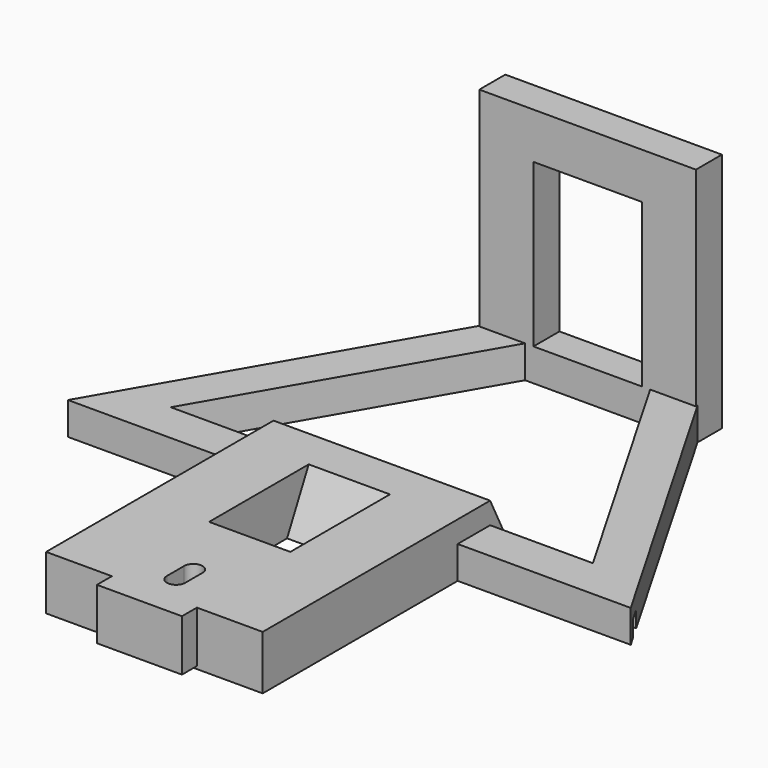
from build123d import *

# Parameters (mm, degrees)
BOX051_W                   = 220
BOX051_H                   = 2.5
BOX051_DEPTH               = 3
EXTRUDE020_DEPTH           = 10
BOX052_W                   = 220
BOX052_H                   = 113
BOX052_DEPTH               = 8
BOX050_W                   = 32
BOX050_H                   = 6
BOX050_DEPTH               = 6
PRISM006_DEPTH             = 6
PRISM006_PLACEMENT_ANGLE   = 30
PRISM007_DEPTH             = 6
PRISM007_PLACEMENT_ANGLE   = 30
BOX055_W                   = 6.3
BOX055_H                   = 8
BOX055_DEPTH               = 2.5
EXTRUDE021_DEPTH           = 12
BOX054_W                   = 15.7
BOX054_H                   = 3.45
BOX054_DEPTH               = 9.5
BOX053_W                   = 15
BOX053_H                   = 22
BOX053_DEPTH               = 10
EXTRUDE022_DEPTH           = 12
BOX038_W                   = 12.5
BOX038_H                   = 46
BOX038_DEPTH               = 10
BOX046_W                   = 220
BOX046_H                   = 2.5
BOX046_DEPTH               = 3
BOX045_W                   = 30
BOX045_H                   = 7.5
BOX045_DEPTH               = 10
BOX047_W                   = 50
BOX047_H                   = 10
BOX047_DEPTH               = 10
BOX042_W                   = 12.5
BOX042_H                   = 7.5
BOX042_DEPTH               = 12
BOX043_W                   = 12.5
BOX043_H                   = 7.5
BOX043_DEPTH               = 12
CYLINDER004_R              = 1.7
CYLINDER004_DEPTH          = 30
BOX041_W                   = 15
BOX041_H                   = 70
BOX041_DEPTH               = 6
BOX044_W                   = 40
BOX044_H                   = 51
BOX044_DEPTH               = 6
EXTRUDE018_DEPTH           = 40
BOX040_W                   = 12.5
BOX040_H                   = 46
BOX040_DEPTH               = 10
BOX039_W                   = 12.5
BOX039_H                   = 46
BOX039_DEPTH               = 10
EXTRUDE019_DEPTH           = 40
EXTRUDE019_PLACEMENT_ANGLE = 180
BOX036_W                   = 220
BOX036_H                   = 2.5
BOX036_DEPTH               = 3
BOX037_W                   = 30
BOX037_H                   = 7.5
BOX037_DEPTH               = 10
BOX035_W                   = 50
BOX035_H                   = 10
BOX035_DEPTH               = 10
BOX009_W                   = 12.5
BOX009_H                   = 7.5
BOX009_DEPTH               = 12
BOX010_W                   = 12.5
BOX010_H                   = 7.5
BOX010_DEPTH               = 12
CYLINDER_R                 = 1.7
CYLINDER_DEPTH             = 30
BOX007_W                   = 15
BOX007_H                   = 70
BOX007_DEPTH               = 6
BOX006_W                   = 40
BOX006_H                   = 51
BOX006_DEPTH               = 6
BOX048_W                   = 20
BOX048_H                   = 6
BOX048_DEPTH               = 30
BOX049_W                   = 40
BOX049_H                   = 6
BOX049_DEPTH               = 44.5


with BuildPart() as obj1:
    # Box051 → Box051 (new body)
    with BuildSketch(Plane(origin=(-110, 2, 0), x_dir=(1, 0, 0), z_dir=(0, 0, 1))):
        with Locations((110, 1.25)):
            Rectangle(BOX051_W, BOX051_H)
    extrude(amount=BOX051_DEPTH)


with BuildPart() as extrude020:
    # Sketch017 → Extrude020 (new body)
    with BuildSketch(Plane.XY):
        Polygon((-95, 0), (95, 0), (85, 61), (-85, 61), align=None)
    extrude(amount=EXTRUDE020_DEPTH)


with BuildPart() as obj2:
    # Box052 → Box052 (new body)
    with BuildSketch(Plane(origin=(-110, -15, 0), x_dir=(1, 0, 0), z_dir=(0, 0, 1))):
        with Locations((110, 56.5)):
            Rectangle(BOX052_W, BOX052_H)
    extrude(amount=BOX052_DEPTH)

    # Cut004035: cut Extrude020
    add(extrude020.part, mode=Mode.SUBTRACT)


with BuildPart() as cube045:
    # Box050 → Box050 (new body)
    with BuildSketch(Plane(origin=(-16, 55, 0), x_dir=(1, 0, 0), z_dir=(0, 0, 1))):
        with Locations((16, 3)):
            Rectangle(BOX050_W, BOX050_H)
    extrude(amount=BOX050_DEPTH)


with BuildPart() as prism006:
    # Prism006 → Prism006 (new body)
    with BuildSketch(Plane.XY):
        Polygon((45, 0), (-22.5, 38.971143), (-22.5, -38.971143), align=None)
    extrude(amount=PRISM006_DEPTH)


with BuildPart() as prism006_1:
    # Prism006 placement: moved
    add(prism006.part.moved(Location((0, 23, 0))).rotate(Axis((0, 23, 0), (0, 0, -1)), PRISM006_PLACEMENT_ANGLE))


with BuildPart() as obj3:
    # Prism007 → Prism007 (new body)
    with BuildSketch(Plane.XY):
        Polygon((60, 0), (-30, 51.961524), (-30, -51.961524), align=None)
    extrude(amount=PRISM007_DEPTH)


with BuildPart() as obj3_1:
    # Prism007 placement: moved
    add(obj3.part.moved(Location((0, 23, 0))).rotate(Axis((0, 23, 0), (0, 0, -1)), PRISM007_PLACEMENT_ANGLE))

    # Cut004032: cut Prism006
    add(prism006_1.part, mode=Mode.SUBTRACT)


with BuildPart() as obj3_2:
    # Cut004032 placement: moved
    add(obj3_1.part.moved(Location((0, 7, 0))))

    # Fusion004009004002006: union Cube045
    add(cube045.part)

    # Cut004034: cut obj2
    add(obj2.part, mode=Mode.SUBTRACT)

    # Cut004033: cut obj1
    add(obj1.part, mode=Mode.SUBTRACT)


with BuildPart() as cube049:
    # Box055 → Box055 (new body)
    with BuildSketch(Plane(origin=(-3.15, -42, 0), x_dir=(1, 0, 0), z_dir=(0, 0, 1))):
        with Locations((3.15, 4)):
            Rectangle(BOX055_W, BOX055_H)
    extrude(amount=BOX055_DEPTH)


with BuildPart() as extrude021:
    # Sketch018 (on Face24 of Fusion004009004002007001) → Extrude021 (new body)
    with BuildSketch(Plane.XY.offset(10)):
        with BuildLine():
            ThreePointArc((1.7, -36), (0, -34.3), (-1.7, -36))
            Line((-1.7, -36), (-1.7, -40))
            ThreePointArc((-1.7, -40), (0, -41.7), (1.7, -40))
            Line((1.7, -36), (1.7, -40))
        make_face()
    extrude(amount=EXTRUDE021_DEPTH)


with BuildPart() as extrude021_1:
    # Extrude021 placement: moved
    add(extrude021.part.moved(Location((0, 0, -11))))


with BuildPart() as cube048:
    # Box054 → Box054 (new body)
    with BuildSketch(Plane(origin=(-7.85, -48.45, 0.5), x_dir=(1, 0, 0), z_dir=(0, 0, 1))):
        with Locations((7.85, 1.725)):
            Rectangle(BOX054_W, BOX054_H)
    extrude(amount=BOX054_DEPTH)


with BuildPart() as cut004038:
    # Box053 → Box053 (new body)
    with BuildSketch(Plane(origin=(-7.5, -45, 0), x_dir=(1, 0, 0), z_dir=(0, 0, 1))):
        with Locations((7.5, 11)):
            Rectangle(BOX053_W, BOX053_H)
    extrude(amount=BOX053_DEPTH)

    # Fusion004009004002007002: union Cube048
    add(cube048.part)

    # Cut004036: cut Extrude021
    add(extrude021_1.part, mode=Mode.SUBTRACT)

    # Cut004038: cut Cube049
    add(cube049.part, mode=Mode.SUBTRACT)


with BuildPart() as extrude022:
    # Sketch019 (on Face24 of Fusion004009004002007003) → Extrude022 (new body)
    with BuildSketch(Plane.XY.offset(10)):
        with BuildLine():
            ThreePointArc((1.7, -36), (0, -34.3), (-1.7, -36))
            Line((-1.7, -36), (-1.7, -40))
            ThreePointArc((-1.7, -40), (0, -41.7), (1.7, -40))
            Line((1.7, -36), (1.7, -40))
        make_face()
    extrude(amount=EXTRUDE022_DEPTH)


with BuildPart() as extrude022_1:
    # Extrude022 placement: moved
    add(extrude022.part.moved(Location((0, 0, -11))))


with BuildPart() as cube034:
    # Box038 → Box038 (new body)
    with BuildSketch(Plane(origin=(-20, -45, 0), x_dir=(1, 0, 0), z_dir=(0, 0, 1))):
        with Locations((6.25, 23)):
            Rectangle(BOX038_W, BOX038_H)
    extrude(amount=BOX038_DEPTH)


with BuildPart() as obj4:
    # Box046 → Box046 (new body)
    with BuildSketch(Plane(origin=(-110, 2, 0), x_dir=(1, 0, 0), z_dir=(0, 0, 1))):
        with Locations((110, 1.25)):
            Rectangle(BOX046_W, BOX046_H)
    extrude(amount=BOX046_DEPTH)


with BuildPart() as cube041:
    # Box045 → Box045 (new body)
    with BuildSketch(Plane(origin=(-14, 0, 0), x_dir=(1, 0, 0), z_dir=(0, 0, 1))):
        with Locations((15, 3.75)):
            Rectangle(BOX045_W, BOX045_H)
    extrude(amount=BOX045_DEPTH)


with BuildPart() as cube042:
    # Box047 → Box047 (new body)
    with BuildSketch(Plane(origin=(-22, -1, -10), x_dir=(1, 0, 0), z_dir=(0, 0, 1))):
        with Locations((25, 5)):
            Rectangle(BOX047_W, BOX047_H)
    extrude(amount=BOX047_DEPTH)


with BuildPart() as cube038:
    # Box042 → Box042 (new body)
    with BuildSketch(Plane(origin=(7.5, 0, 13), x_dir=(1, 0, 0), z_dir=(0, 0, 1))):
        with Locations((6.25, 3.75)):
            Rectangle(BOX042_W, BOX042_H)
    extrude(amount=BOX042_DEPTH)


with BuildPart() as cube039:
    # Box043 → Box043 (new body)
    with BuildSketch(Plane(origin=(-20, 0, 13), x_dir=(1, 0, 0), z_dir=(0, 0, 1))):
        with Locations((6.25, 3.75)):
            Rectangle(BOX043_W, BOX043_H)
    extrude(amount=BOX043_DEPTH)


with BuildPart() as cylinder004:
    # Cylinder004 → Cylinder004 (new body)
    with BuildSketch(Plane(origin=(0, 7, 0), x_dir=(1, 0, 0), z_dir=(0, 0, 1))):
        Circle(CYLINDER004_R)
    extrude(amount=CYLINDER004_DEPTH)


with BuildPart() as cube037:
    # Box041 → Box041 (new body)
    with BuildSketch(Plane(origin=(12.5, 22, 20), x_dir=(1, 0, 0), z_dir=(0, 0, 1))):
        with Locations((7.5, 35)):
            Rectangle(BOX041_W, BOX041_H)
    extrude(amount=BOX041_DEPTH)


with BuildPart() as cut004029:
    # Box044 → Box044 (new body)
    with BuildSketch(Plane.XY.offset(20)):
        with Locations((20, 25.5)):
            Rectangle(BOX044_W, BOX044_H)
    extrude(amount=BOX044_DEPTH)

    # Cut004028: cut Cube037
    add(cube037.part, mode=Mode.SUBTRACT)


with BuildPart() as cut004029_1:
    # Cut004028 placement: moved
    add(cut004029.part.moved(Location((-20, 0, -1))))

    # Cut004027: cut Cylinder004
    add(cylinder004.part, mode=Mode.SUBTRACT)


with BuildPart() as cut004029_2:
    # Cut004027 placement: moved
    add(cut004029_1.part.moved(Location((0, -45, 0))))

    # Fusion004009004002003: union Cube038, Cube039
    add(cube038.part)
    add(cube039.part)


with BuildPart() as cut004029_3:
    # Fusion004009004002003 placement: moved
    add(cut004029_2.part.moved(Location((0, 0, -15))))

    # Cut004030: cut Cube042
    add(cube042.part, mode=Mode.SUBTRACT)

    # Fusion004009004002004: union Cube041
    add(cube041.part)

    # Cut004029: cut obj4
    add(obj4.part, mode=Mode.SUBTRACT)


with BuildPart() as extrude018:
    # Sketch015 (on Face1 of Box038) → Extrude018 (new body)
    with BuildSketch(Plane(origin=(-20, -45, 0), x_dir=(0, -1, 0), z_dir=(-1, 0, 0))):
        Polygon((-52.5, 10), (-52.5, 0), (-57.5, 0), align=None)
    extrude(amount=EXTRUDE018_DEPTH)


with BuildPart() as extrude018_1:
    # Extrude018 placement: moved
    add(extrude018.part.moved(Location((40, 0, 0))))


with BuildPart() as cube036:
    # Box040 → Box040 (new body)
    with BuildSketch(Plane(origin=(-20, -45, 0), x_dir=(1, 0, 0), z_dir=(0, 0, 1))):
        with Locations((6.25, 23)):
            Rectangle(BOX040_W, BOX040_H)
    extrude(amount=BOX040_DEPTH)


with BuildPart() as cube035:
    # Box039 → Box039 (new body)
    with BuildSketch(Plane(origin=(7.5, -45, 0), x_dir=(1, 0, 0), z_dir=(0, 0, 1))):
        with Locations((6.25, 23)):
            Rectangle(BOX039_W, BOX039_H)
    extrude(amount=BOX039_DEPTH)


with BuildPart() as extrude019:
    # Sketch016 (on Face1 of Box040) → Extrude019 (new body)
    with BuildSketch(Plane(origin=(-20, -45, 0), x_dir=(0, -1, 0), z_dir=(-1, 0, 0))):
        Polygon((-52.5, 10), (-52.5, 0), (-57.5, 0), align=None)
    extrude(amount=EXTRUDE019_DEPTH)


with BuildPart() as extrude019_1:
    # Extrude019 placement: moved
    add(extrude019.part.moved(Location((-40, 7.5, 0))).rotate(Axis((-40, 7.5, 0), (0, 0, 1)), EXTRUDE019_PLACEMENT_ANGLE))


with BuildPart() as obj5:
    # Box036 → Box036 (new body)
    with BuildSketch(Plane(origin=(-110, 2, 0), x_dir=(1, 0, 0), z_dir=(0, 0, 1))):
        with Locations((110, 1.25)):
            Rectangle(BOX036_W, BOX036_H)
    extrude(amount=BOX036_DEPTH)


with BuildPart() as cube033:
    # Box037 → Box037 (new body)
    with BuildSketch(Plane(origin=(-14, 0, 0), x_dir=(1, 0, 0), z_dir=(0, 0, 1))):
        with Locations((15, 3.75)):
            Rectangle(BOX037_W, BOX037_H)
    extrude(amount=BOX037_DEPTH)


with BuildPart() as cube032:
    # Box035 → Box035 (new body)
    with BuildSketch(Plane(origin=(-22, -1, -10), x_dir=(1, 0, 0), z_dir=(0, 0, 1))):
        with Locations((25, 5)):
            Rectangle(BOX035_W, BOX035_H)
    extrude(amount=BOX035_DEPTH)


with BuildPart() as cube008:
    # Box009 → Box009 (new body)
    with BuildSketch(Plane(origin=(7.5, 0, 13), x_dir=(1, 0, 0), z_dir=(0, 0, 1))):
        with Locations((6.25, 3.75)):
            Rectangle(BOX009_W, BOX009_H)
    extrude(amount=BOX009_DEPTH)


with BuildPart() as cube009:
    # Box010 → Box010 (new body)
    with BuildSketch(Plane(origin=(-20, 0, 13), x_dir=(1, 0, 0), z_dir=(0, 0, 1))):
        with Locations((6.25, 3.75)):
            Rectangle(BOX010_W, BOX010_H)
    extrude(amount=BOX010_DEPTH)


with BuildPart() as cylinder:
    # Cylinder → Cylinder (new body)
    with BuildSketch(Plane(origin=(0, 7, 0), x_dir=(1, 0, 0), z_dir=(0, 0, 1))):
        Circle(CYLINDER_R)
    extrude(amount=CYLINDER_DEPTH)


with BuildPart() as cube007:
    # Box007 → Box007 (new body)
    with BuildSketch(Plane(origin=(12.5, 22, 20), x_dir=(1, 0, 0), z_dir=(0, 0, 1))):
        with Locations((7.5, 35)):
            Rectangle(BOX007_W, BOX007_H)
    extrude(amount=BOX007_DEPTH)


with BuildPart() as obj6:
    # Box006 → Box006 (new body)
    with BuildSketch(Plane.XY.offset(20)):
        with Locations((20, 25.5)):
            Rectangle(BOX006_W, BOX006_H)
    extrude(amount=BOX006_DEPTH)

    # Cut004005: cut Cube007
    add(cube007.part, mode=Mode.SUBTRACT)


with BuildPart() as obj6_1:
    # Cut004005 placement: moved
    add(obj6.part.moved(Location((-20, 0, -1))))

    # Cut004006: cut Cylinder
    add(cylinder.part, mode=Mode.SUBTRACT)


with BuildPart() as obj6_2:
    # Cut004006 placement: moved
    add(obj6_1.part.moved(Location((0, -45, 0))))

    # Fusion004002: union Cube008, Cube009
    add(cube008.part)
    add(cube009.part)


with BuildPart() as obj6_3:
    # Fusion004002 placement: moved
    add(obj6_2.part.moved(Location((0, 0, -15))))

    # Cut004025: cut Cube032
    add(cube032.part, mode=Mode.SUBTRACT)

    # Fusion004009004002002: union Cube033
    add(cube033.part)

    # Cut004026: cut obj5
    add(obj5.part, mode=Mode.SUBTRACT)

    # Fusion004009004002005: union Cube034, Cut004029, Extrude018, Cube036, Cube035, Extrude019
    add(cube034.part)
    add(cut004029_3.part)
    add(extrude018_1.part)
    add(cube036.part)
    add(cube035.part)
    add(extrude019_1.part)

    # Cut004037: cut Extrude022
    add(extrude022_1.part, mode=Mode.SUBTRACT)

    # Fusion004009004002007004: union Cut004038
    add(cut004038.part)


with BuildPart() as cube043:
    # Box048 → Box048 (new body)
    with BuildSketch(Plane(origin=(-10, 55, 6), x_dir=(1, 0, 0), z_dir=(0, 0, 1))):
        with Locations((10, 3)):
            Rectangle(BOX048_W, BOX048_H)
    extrude(amount=BOX048_DEPTH)


with BuildPart() as obj7:
    # Box049 → Box049 (new body)
    with BuildSketch(Plane(origin=(-20, 55, 0), x_dir=(1, 0, 0), z_dir=(0, 0, 1))):
        with Locations((20, 3)):
            Rectangle(BOX049_W, BOX049_H)
    extrude(amount=BOX049_DEPTH)

    # Cut004031: cut Cube043
    add(cube043.part, mode=Mode.SUBTRACT)

    # Fusion004009004002007005: union obj3, obj6
    add(obj3_2.part)
    add(obj6_3.part)


solid = obj7.part
